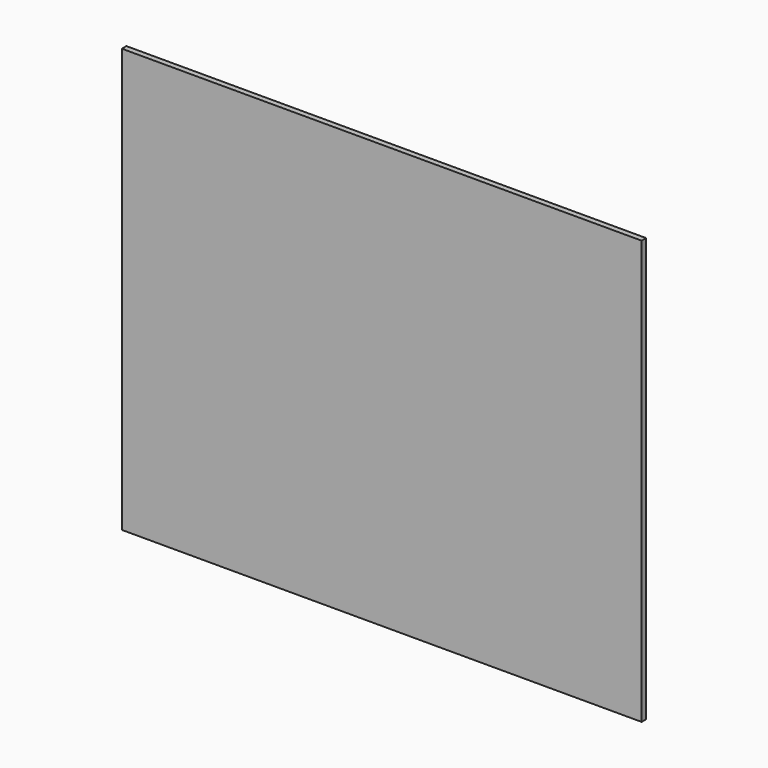
from build123d import *

# Parameters (mm, degrees)
F0_W     = 184
F0_H     = 150
F1_DEPTH = 2


with BuildPart() as f1:
    # F0 (on Front) → F1 (new body)
    with BuildSketch(Plane.XZ):
        Rectangle(F0_W, F0_H)
        Rectangle(F0_W, F0_H)
    extrude(amount=F1_DEPTH)


solid = f1.part
